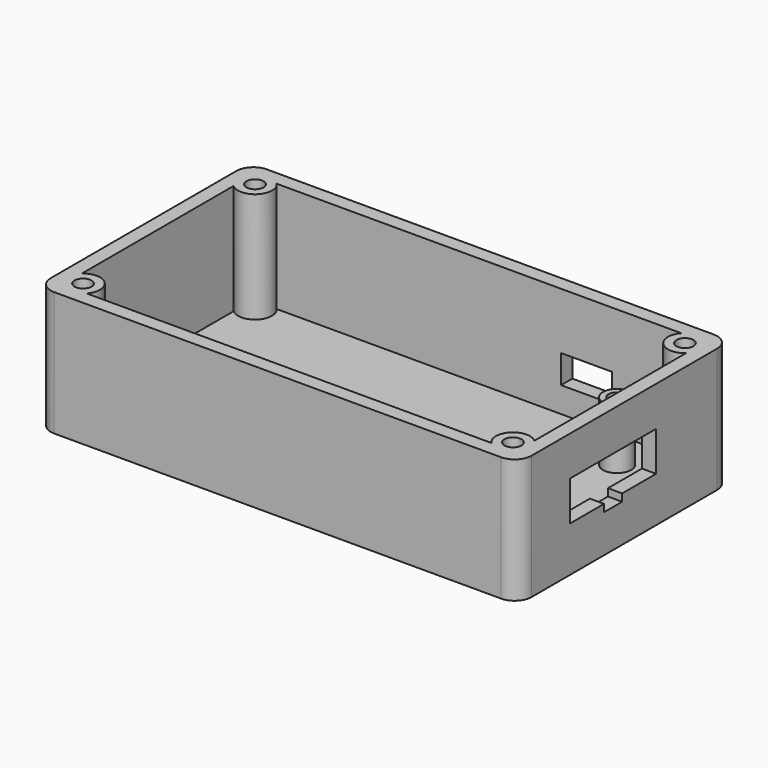
from build123d import *

# Parameters (mm, degrees)
F1_DEPTH  = 22
F2_T      = -2.5
F3_R      = 3
F3_R_2    = 1.4999993145
F4_DEPTH  = 19.5
F6_DEPTH  = 2.5
F7_W      = 9
F7_H      = 5
F8_DEPTH  = 2.5
F9_R      = 2.5
F9_R_2    = 1.5
F10_DEPTH = 10.5


with BuildPart() as f1:
    # F0 (on Top) → F1 (new body)
    with BuildSketch(Plane.XY):
        with BuildLine():
            ThreePointArc((42.5, 20.5), (41.6213203436, 22.6213203436), (39.5, 23.5))
            Line((39.5, 23.5), (-39.5, 23.5))
            ThreePointArc((-39.5, 23.5), (-41.6213203436, 22.6213203436), (-42.5, 20.5))
            Line((-42.5, 20.5), (-42.5, -20.5))
            ThreePointArc((-42.5, -20.5), (-41.6213203436, -22.6213203436), (-39.5, -23.5))
            Line((-39.5, -23.5), (39.5, -23.5))
            ThreePointArc((39.5, -23.5), (41.6213203436, -22.6213203436), (42.5, -20.5))
            Line((42.5, -20.5), (42.5, 20.5))
        make_face()
    extrude(amount=F1_DEPTH)

    # F2
    f2_openings = [f1.faces().sort_by_distance(p)[0] for p in [
        (0, 0, 22),
    ]]
    offset(amount=F2_T, openings=f2_openings)

    # F3 (on face) → F4 (join, through all)
    with BuildSketch(Plane.XY.offset(2.5)):
        with Locations((-38, 19)):
            Circle(F3_R)
        with Locations((-38, 19)):
            Circle(F3_R_2, mode=Mode.SUBTRACT)
        with Locations((38, 19)):
            Circle(F3_R)
        with Locations((38, 19)):
            Circle(F3_R_2, mode=Mode.SUBTRACT)
        with Locations((38, -19)):
            Circle(F3_R)
        with Locations((38, -19)):
            Circle(F3_R_2, mode=Mode.SUBTRACT)
        with Locations((-38, -19)):
            Circle(F3_R)
        with Locations((-38, -19)):
            Circle(F3_R_2, mode=Mode.SUBTRACT)
    extrude(amount=F4_DEPTH)

    # F5 (on face) → F6 (cut, through all)
    with BuildSketch(Plane.YZ.offset(42.5)):
        Polygon((7, 15), (-12, 15), (-12, 8), (-4.5, 8), (-4.5, 6.7), (-0.5, 6.7), (-0.5, 8), (7, 8), align=None)
    extrude(amount=-F6_DEPTH, mode=Mode.SUBTRACT)

    # F7 (on face) → F8 (cut, through all)
    with BuildSketch(Plane(origin=(0, 23.5, 0), x_dir=(-1, 0, 0), z_dir=(0, 1, 0))):
        with Locations((-19, 9.5)):
            Rectangle(F7_W, F7_H)
    extrude(amount=-F8_DEPTH, mode=Mode.SUBTRACT)

    # F9 (on face) → F10 (join)
    with BuildSketch(Plane.XY.offset(2.5)):
        with Locations((30, 14)):
            Circle(F9_R)
        with Locations((30, 14)):
            Circle(F9_R_2, mode=Mode.SUBTRACT)
        with Locations((30, -14)):
            Circle(F9_R)
        with Locations((30, -14)):
            Circle(F9_R_2, mode=Mode.SUBTRACT)
    extrude(amount=F10_DEPTH)


solid = f1.part
